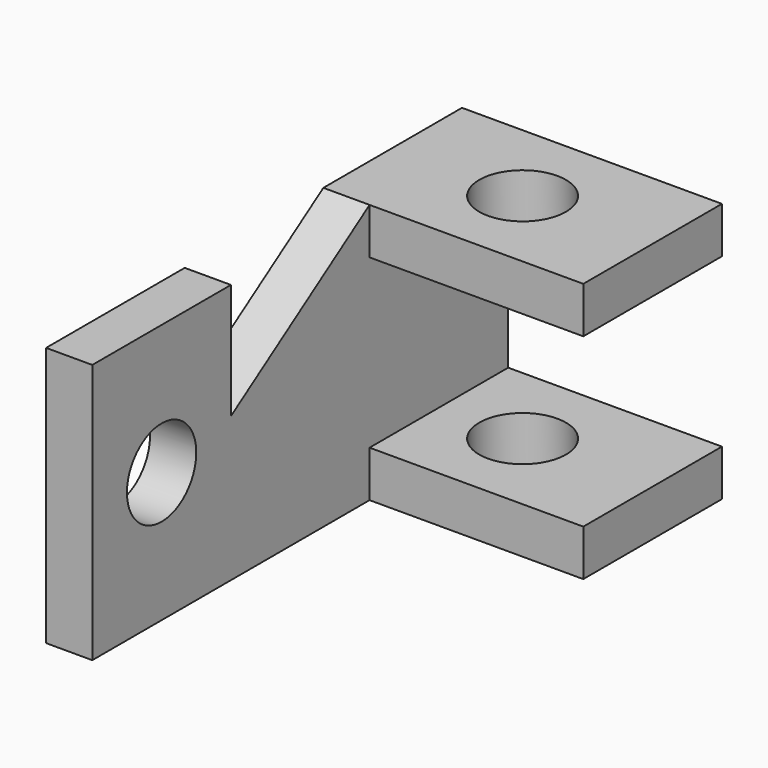
from build123d import *

# Parameters (mm, degrees)
F1_DEPTH = 8
F2_W     = 30
F2_H     = 8
F3_DEPTH = 37
F5_D     = 15
F6_D     = 15


with BuildPart() as f1:
    # F0 (on Right) → F1 (new body)
    with BuildSketch(Plane.YZ):
        Polygon((30, 45), (0, 45), (0, 0), (90, 0), (90, 45), (60, 45), (30, 25), align=None)
    extrude(amount=F1_DEPTH)

    # F2 (on face) → F3 (join)
    with BuildSketch(Plane.YZ.offset(8)):
        with Locations((75, 41)):
            Rectangle(F2_W, F2_H)
        with Locations((75, 4)):
            Rectangle(F2_W, F2_H)
    extrude(amount=F3_DEPTH)

    # F5 (through all)
    with Locations(Plane.XY.offset(45)):
        with Locations((22.496106, 75)):
            Hole(F5_D / 2)

    # F6 (through all)
    with Locations(Plane.YZ.offset(8)):
        with Locations((15, 22.5)):
            Hole(F6_D / 2)


solid = f1.part
